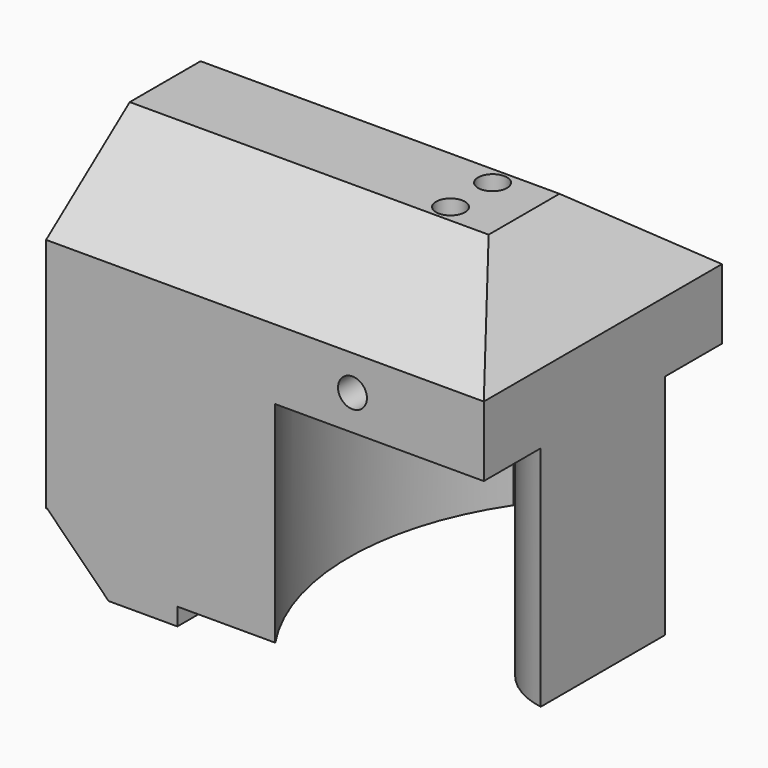
from build123d import *

# Parameters (mm, degrees)
CYLINDER026_R               = 1.5
CYLINDER026_DEPTH           = 48
CYLINDER025_R               = 1.5
CYLINDER025_DEPTH           = 48
CYLINDER024_R               = 1.65
CYLINDER024_DEPTH           = 20
CYLINDER024_PLACEMENT_ANGLE = 45
CYLINDER023_R               = 1.65
CYLINDER023_DEPTH           = 20
CYLINDER023_PLACEMENT_ANGLE = 45
BOX008_W                    = 10
BOX008_H                    = 34
BOX008_DEPTH                = 10
BOX008_PLACEMENT_ANGLE      = 45
CYLINDER021_R               = 5
CYLINDER021_DEPTH           = 20
CYLINDER022_R               = 5
CYLINDER022_DEPTH           = 20
CYLINDER020_R               = 5
CYLINDER020_DEPTH           = 38
BOX006_W                    = 15
BOX006_H                    = 34
BOX006_DEPTH                = 2
CYLINDER014_R               = 2.5
CYLINDER014_DEPTH           = 10
CYLINDER015_R               = 2.5
CYLINDER015_DEPTH           = 10
CYLINDER012_R               = 1.65
CYLINDER012_DEPTH           = 34
CYLINDER013_R               = 1.65
CYLINDER013_DEPTH           = 34
CYLINDER011_R               = 1.65
CYLINDER011_DEPTH           = 34
CYLINDER006_R               = 9
CYLINDER006_DEPTH           = 26
CYLINDER005_R               = 30.5
CYLINDER005_DEPTH           = 26
BOX002_W                    = 72
BOX002_H                    = 20
BOX002_DEPTH                = 50
BOX002_PLACEMENT_ANGLE      = 53
BOX003_W                    = 72
BOX003_H                    = 20
BOX003_DEPTH                = 50
BOX003_PLACEMENT_ANGLE      = 53
COMPOUND012_PLACEMENT_ANGLE = 180
BOX001_W                    = 100
BOX001_H                    = 34
BOX001_DEPTH                = 50
BOX001_PLACEMENT_ANGLE      = 45
BOX_W                       = 50
BOX_H                       = 34
BOX_DEPTH                   = 43


with BuildPart() as cylinder026:
    # Cylinder026 → Cylinder026 (new body)
    with BuildSketch(Plane(origin=(0, 29, 26), x_dir=(0, 0, -1), z_dir=(1, 0, 0))):
        Circle(CYLINDER026_R)
    extrude(amount=CYLINDER026_DEPTH)


with BuildPart() as cabledrillhole:
    # Cylinder025 → Cylinder025 (new body)
    with BuildSketch(Plane(origin=(0, 5, 26), x_dir=(0, 0, -1), z_dir=(1, 0, 0))):
        Circle(CYLINDER025_R)
    extrude(amount=CYLINDER025_DEPTH)

    # Fusion010: union Cylinder026
    add(cylinder026.part)


with BuildPart() as cylinder024:
    # Cylinder024 → Cylinder024 (new body)
    with BuildSketch(Plane.XY):
        Circle(CYLINDER024_R)
    extrude(amount=CYLINDER024_DEPTH)


with BuildPart() as cylinder024_1:
    # Cylinder024 placement: moved
    add(cylinder024.part.moved(Location((0, 29.5, 0))).rotate(Axis((0, 29.5, 0), (0, 1, 0)), CYLINDER024_PLACEMENT_ANGLE))


with BuildPart() as m4screws:
    # Cylinder023 → Cylinder023 (new body)
    with BuildSketch(Plane.XY):
        Circle(CYLINDER023_R)
    extrude(amount=CYLINDER023_DEPTH)


with BuildPart() as m4screws_1:
    # Cylinder023 placement: moved
    add(m4screws.part.moved(Location((0, 4.5, 0))).rotate(Axis((0, 4.5, 0), (0, 1, 0)), CYLINDER023_PLACEMENT_ANGLE))

    # Fusion009: union Cylinder024
    add(cylinder024_1.part)


with BuildPart() as cube008:
    # Box008 → Box008 (new body)
    with BuildSketch(Plane.XY):
        with Locations((5, 17)):
            Rectangle(BOX008_W, BOX008_H)
    extrude(amount=BOX008_DEPTH)


with BuildPart() as cube008_1:
    # Box008 placement: moved
    add(cube008.part.moved(Location((-7, 0, 0))).rotate(Axis((-7, 0, 0), (0, 1, 0)), BOX008_PLACEMENT_ANGLE))


with BuildPart() as nitrogenchamber002:
    # Cylinder021 → Cylinder021 (new body)
    with BuildSketch(Plane(origin=(0, 17, 14.5), x_dir=(0, 0, -1), z_dir=(1, 0, 0))):
        Circle(CYLINDER021_R)
    extrude(amount=CYLINDER021_DEPTH)


with BuildPart() as nitrogenchamber003:
    # Cylinder022 → Cylinder022 (new body)
    with BuildSketch(Plane(origin=(0, 17, 35.5), x_dir=(0, 0, -1), z_dir=(1, 0, 0))):
        Circle(CYLINDER022_R)
    extrude(amount=CYLINDER022_DEPTH)


with BuildPart() as nitrogenchamber:
    # Cylinder020 → Cylinder020 (new body)
    with BuildSketch(Plane(origin=(13, 17, 0), x_dir=(0, 1, 0), z_dir=(0, 0, 1))):
        Circle(CYLINDER020_R)
    extrude(amount=CYLINDER020_DEPTH)

    # Fusion008: union NitrogenChamber002, NitrogenChamber003
    add(nitrogenchamber002.part)
    add(nitrogenchamber003.part)


with BuildPart() as cube006:
    # Box006 → Box006 (new body)
    with BuildSketch(Plane(origin=(15, 0, 0), x_dir=(1, 0, 0), z_dir=(0, 0, 1))):
        with Locations((7.5, 17)):
            Rectangle(BOX006_W, BOX006_H)
    extrude(amount=BOX006_DEPTH)


with BuildPart() as cylinder014:
    # Cylinder014 → Cylinder014 (new body)
    with BuildSketch(Plane(origin=(20, 5, 0), x_dir=(1, 0, 0), z_dir=(0, 0, 1))):
        Circle(CYLINDER014_R)
    extrude(amount=CYLINDER014_DEPTH)


with BuildPart() as obj1:
    # Cylinder015 → Cylinder015 (new body)
    with BuildSketch(Plane(origin=(20, 29, 0), x_dir=(1, 0, 0), z_dir=(0, 0, 1))):
        Circle(CYLINDER015_R)
    extrude(amount=CYLINDER015_DEPTH)

    # Fusion004: union Cylinder014
    add(cylinder014.part)


with BuildPart() as cylinder012:
    # Cylinder012 → Cylinder012 (new body)
    with BuildSketch(Plane(origin=(35, 20, 27), x_dir=(1, 0, 0), z_dir=(0, 0, 1))):
        Circle(CYLINDER012_R)
    extrude(amount=CYLINDER012_DEPTH)


with BuildPart() as cylinder013:
    # Cylinder013 → Cylinder013 (new body)
    with BuildSketch(Plane(origin=(35, 14, 27), x_dir=(1, 0, 0), z_dir=(0, 0, 1))):
        Circle(CYLINDER013_R)
    extrude(amount=CYLINDER013_DEPTH)


with BuildPart() as m4mountscrews01_corehole:
    # Cylinder011 → Cylinder011 (new body)
    with BuildSketch(Plane(origin=(35, 34, 30), x_dir=(1, 0, 0), z_dir=(0, -1, 0))):
        Circle(CYLINDER011_R)
    extrude(amount=CYLINDER011_DEPTH)

    # Fusion003: union Cylinder012, Cylinder013
    add(cylinder012.part)
    add(cylinder013.part)


with BuildPart() as cylinder006:
    # Cylinder006 → Cylinder006 (new body)
    with BuildSketch(Plane.XY):
        Circle(CYLINDER006_R)
    extrude(amount=CYLINDER006_DEPTH)


with BuildPart() as cut001:
    # Cylinder005 → Cylinder005 (new body)
    with BuildSketch(Plane.XY):
        Circle(CYLINDER005_R)
    extrude(amount=CYLINDER005_DEPTH)

    # Cut001: cut Cylinder006
    add(cylinder006.part, mode=Mode.SUBTRACT)


with BuildPart() as cut001_1:
    # Cut001 placement: moved
    add(cut001.part.moved(Location((51.5, 17, 0))))


with BuildPart() as cube002:
    # Box002 → Box002 (new body)
    with BuildSketch(Plane.XY):
        with Locations((36, 10)):
            Rectangle(BOX002_W, BOX002_H)
    extrude(amount=BOX002_DEPTH)


with BuildPart() as cube002_1:
    # Box002 placement: moved
    add(cube002.part.moved(Location((0, 34, 34))).rotate(Axis((0, 34, 34), (1, 0, 0)), BOX002_PLACEMENT_ANGLE))


with BuildPart() as compound012:
    # Box003 → Box003 (new body)
    with BuildSketch(Plane.XY):
        with Locations((36, 10)):
            Rectangle(BOX003_W, BOX003_H)
    extrude(amount=BOX003_DEPTH)


with BuildPart() as compound012_1:
    # Box003 placement: moved
    add(compound012.part.moved(Location((0, 34, 34))).rotate(Axis((0, 34, 34), (1, 0, 0)), BOX003_PLACEMENT_ANGLE))


with BuildPart() as compound012_2:
    # Compound012 placement: moved
    add(compound012_1.part.moved(Location((72, 34, 0))).rotate(Axis((72, 34, 0), (0, 0, 1)), COMPOUND012_PLACEMENT_ANGLE))


with BuildPart() as fusion002:
    # Box001 → Box001 (new body)
    with BuildSketch(Plane.XY):
        with Locations((50, 17)):
            Rectangle(BOX001_W, BOX001_H)
    extrude(amount=BOX001_DEPTH)


with BuildPart() as fusion002_1:
    # Box001 placement: moved
    add(fusion002.part.moved(Location((41, 0, 43))).rotate(Axis((41, 0, 43), (0, 1, 0)), BOX001_PLACEMENT_ANGLE))

    # Fusion002: union Cube002, Compound012
    add(cube002_1.part)
    add(compound012_2.part)


with BuildPart() as obj2:
    # Box → Box (new body)
    with BuildSketch(Plane.XY):
        with Locations((25, 17)):
            Rectangle(BOX_W, BOX_H)
    extrude(amount=BOX_DEPTH)

    # Cut: cut Fusion002
    add(fusion002_1.part, mode=Mode.SUBTRACT)

    # Cut003: cut Cut001
    add(cut001_1.part, mode=Mode.SUBTRACT)

    # Cut008: cut M4Mountscrews01_Corehole
    add(m4mountscrews01_corehole.part, mode=Mode.SUBTRACT)

    # Cut009: cut obj1
    add(obj1.part, mode=Mode.SUBTRACT)

    # Cut011: cut Cube006
    add(cube006.part, mode=Mode.SUBTRACT)

    # Cut014: cut NitrogenChamber
    add(nitrogenchamber.part, mode=Mode.SUBTRACT)

    # Cut015: cut Cube008
    add(cube008_1.part, mode=Mode.SUBTRACT)

    # Cut016: cut M4Screws
    add(m4screws_1.part, mode=Mode.SUBTRACT)

    # Cut017: cut CableDrillHole
    add(cabledrillhole.part, mode=Mode.SUBTRACT)


solid = obj2.part
